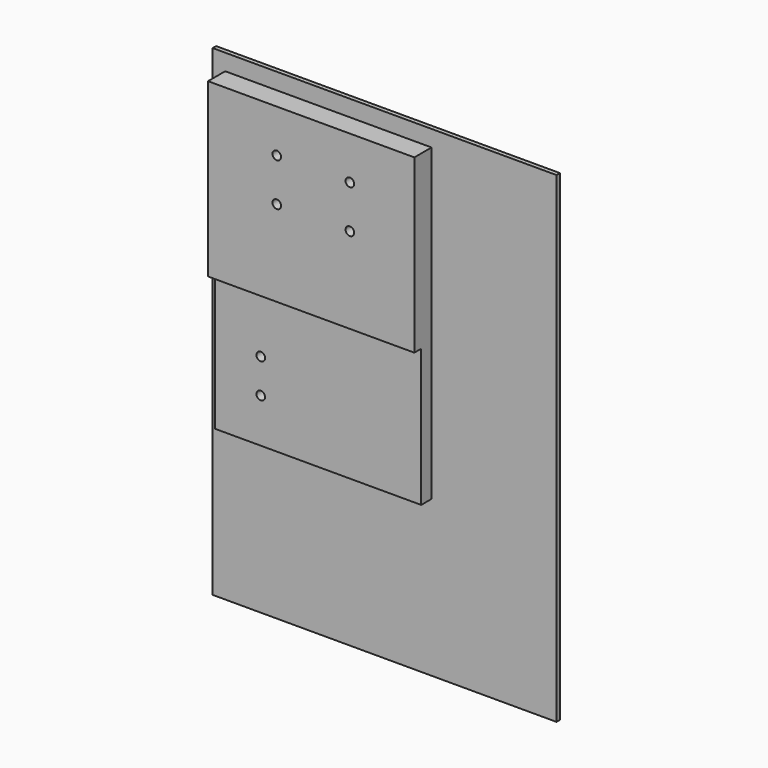
from build123d import *

# Parameters (mm, degrees)
F0_W     = 127
F0_H     = 177.8
F1_DEPTH = 1.5875
F2_DEPTH = 9.525
F3_DEPTH = 6.35
F4_D     = 3.175


with BuildPart() as f1:
    # F0 (on Front) → F1 (new body)
    with BuildSketch(Plane.XZ):
        with Locations((-37.948684603, 39.8532302618)):
            Rectangle(F0_W, F0_H)
        Polygon((-96.8245146513, 59.2209026217), (-96.8245146513, 122.7209026217), (-20.6245146513, 122.7209026217), (-20.6245146513, 59.2209026217), (-20.6245146513, 8.4209026217), (-96.8245146513, 8.4209026217), align=None, mode=Mode.SUBTRACT)
    extrude(amount=F1_DEPTH)

    # F0 (on Front) → F2 (join)
    with BuildSketch(Plane.XZ):
        Polygon((-20.6245146513, 122.7209026217), (-96.8245146513, 122.7209026217), (-96.8245146513, 59.2209026217), (-58.7245146513, 59.2209026217), (-20.6245146513, 59.2209026217), align=None)
    extrude(amount=F2_DEPTH)

    # F0 (on Front) → F3 (join)
    with BuildSketch(Plane.XZ):
        Polygon((-58.7245146513, 59.2209026217), (-96.8245146513, 59.2209026217), (-96.8245146513, 8.4209026217), (-20.6245146513, 8.4209026217), (-20.6245146513, 59.2209026217), align=None)
        Polygon((-85.7120146513, 43.1527666092), (-58.7245146513, 43.1527666092), (-31.7370146513, 43.1527666092), (-31.7370146513, 17.7527666092), (-85.7120146513, 17.7527666092), align=None, mode=Mode.SUBTRACT)
        Polygon((-31.7370146513, 43.1527666092), (-58.7245146513, 43.1527666092), (-85.7120146513, 43.1527666092), (-85.7120146513, 17.7527666092), (-31.7370146513, 17.7527666092), align=None)
    extrude(amount=F3_DEPTH)

    # F4 (through all)
    with Locations(Plane(origin=(0, 0, 0), x_dir=(1, 0, 0), z_dir=(0, 1, 0))):
        with Locations((-71.4245146513, -106.8459026217), (-44.4370146513, -106.8459026217), (-44.4370146513, -90.9709026217), (-71.4245146513, -90.9709026217), (-79.8828303814, -37.4092385173), (-79.8828303814, -24.7092385173)):
            Hole(F4_D / 2)


solid = f1.part
